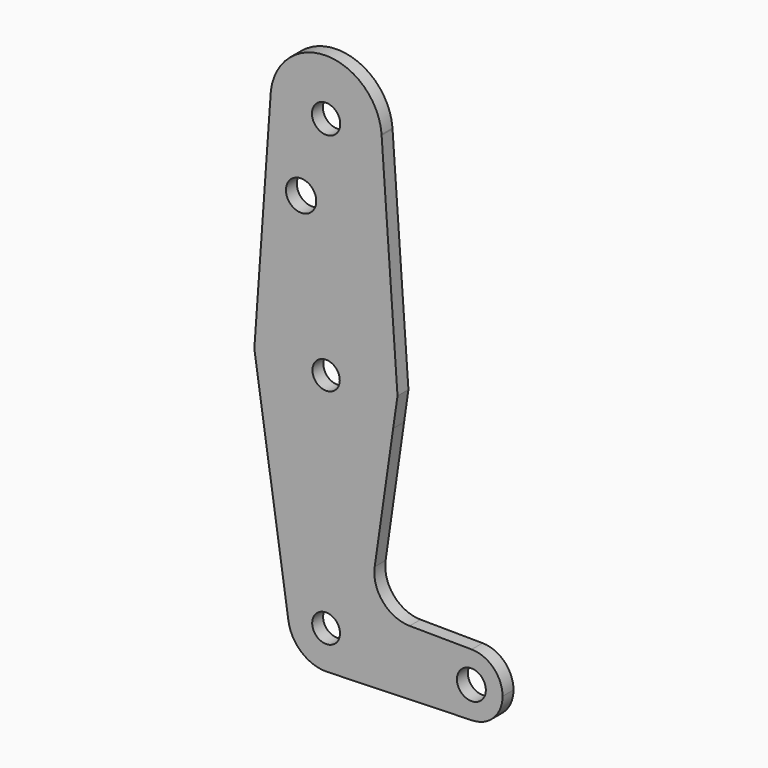
from build123d import *

# Parameters (mm, degrees)
F0_R     = 3.383085
F0_R_2   = 3.160062
F0_R_3   = 3.049475
F0_R_4   = 3.225472
F0_R_5   = 3.10526
F1_DEPTH = 3.048


with BuildPart() as f1:
    # F0 (on Front) → F1 (new body)
    with BuildSketch(Plane.XZ):
        with BuildLine():
            Line((10.85129, -34.115939), (14.972116, -5.596687))
            ThreePointArc((14.972116, -5.596687), (-0.634213, -15.971379), (-15.368755, -4.391871))
            Line((-15.368755, -4.391871), (-8.413413, -50.987253))
            ThreePointArc((-8.413413, -50.987253), (-0.629667, -41.24808), (8.50663, -49.731374))
            ThreePointArc((8.50663, -49.731374), (6.195532, -55.56045), (0.518007, -58.222217))
            Line((0.518007, -58.222217), (32.653399, -57.242875))
            ThreePointArc((32.653399, -57.242875), (25.480397, -50.360413), (32.502091, -43.323649))
            Line((32.502091, -43.323649), (18.650401, -43.202775))
            ThreePointArc((18.650401, -43.202775), (12.686944, -40.430776), (10.85129, -34.115939))
        make_face()
        with BuildLine():
            ThreePointArc((-15.943699, 1.133855), (0.002167, 15.983966), (15.944006, 1.129531))
            Line((15.944006, 1.129531), (12.397665, 51.188259))
            ThreePointArc((12.397665, 51.188259), (12.416061, 50.798318), (12.422194, 50.407991))
            ThreePointArc((12.422194, 50.407991), (-0.145844, 37.986653), (-12.41877, 50.699659))
            Line((-12.41877, 50.699659), (-15.943699, 1.133855))
        make_face()
        with Locations((-5.582093, 33.492558)):
            Circle(F0_R, mode=Mode.SUBTRACT)
        with BuildLine():
            ThreePointArc((12.422194, 50.407991), (12.416061, 50.798318), (12.397665, 51.188259))
            Line((12.397665, 51.188259), (12.383845, 51.383334))
            ThreePointArc((12.383845, 51.383334), (0.247896, 62.827712), (-12.335062, 51.876719))
            Line((-12.335062, 51.876719), (-12.41877, 50.699659))
            ThreePointArc((-12.41877, 50.699659), (-0.145844, 37.986653), (12.422194, 50.407991))
        make_face()
        with Locations((0, 50.407991)):
            Circle(F0_R_2, mode=Mode.SUBTRACT)
        with BuildLine():
            Line((14.972116, -5.596687), (15.944006, 1.129531))
            ThreePointArc((15.944006, 1.129531), (0.002167, 15.983966), (-15.943699, 1.133855))
            ThreePointArc((-15.943699, 1.133855), (-15.978356, 0.423448), (-15.981375, -0.287796))
            Line((-15.981375, -0.287796), (-15.368755, -4.391871))
            ThreePointArc((-15.368755, -4.391871), (-0.634213, -15.971379), (14.972116, -5.596687))
        make_face()
        Circle(F0_R_3, mode=Mode.SUBTRACT)
        with BuildLine():
            ThreePointArc((39.402707, -50.284745), (37.385201, -45.383843), (32.502091, -43.323649))
            ThreePointArc((32.502091, -43.323649), (25.480397, -50.360413), (32.653399, -57.242875))
            ThreePointArc((32.653399, -57.242875), (37.438181, -55.131618), (39.402707, -50.284745))
        make_face()
        with Locations((32.441346, -50.284745)):
            Circle(F0_R_4, mode=Mode.SUBTRACT)
        with BuildLine():
            ThreePointArc((8.50663, -49.731374), (-0.629667, -41.24808), (-8.413413, -50.987253))
            ThreePointArc((-8.413413, -50.987253), (-5.553353, -56.17521), (0, -58.238003))
            Line((0, -58.238003), (0.518007, -58.222217))
            ThreePointArc((0.518007, -58.222217), (6.195532, -55.56045), (8.50663, -49.731374))
        make_face()
        with Locations((0, -49.731374)):
            Circle(F0_R_5, mode=Mode.SUBTRACT)
    extrude(amount=F1_DEPTH)


solid = f1.part
